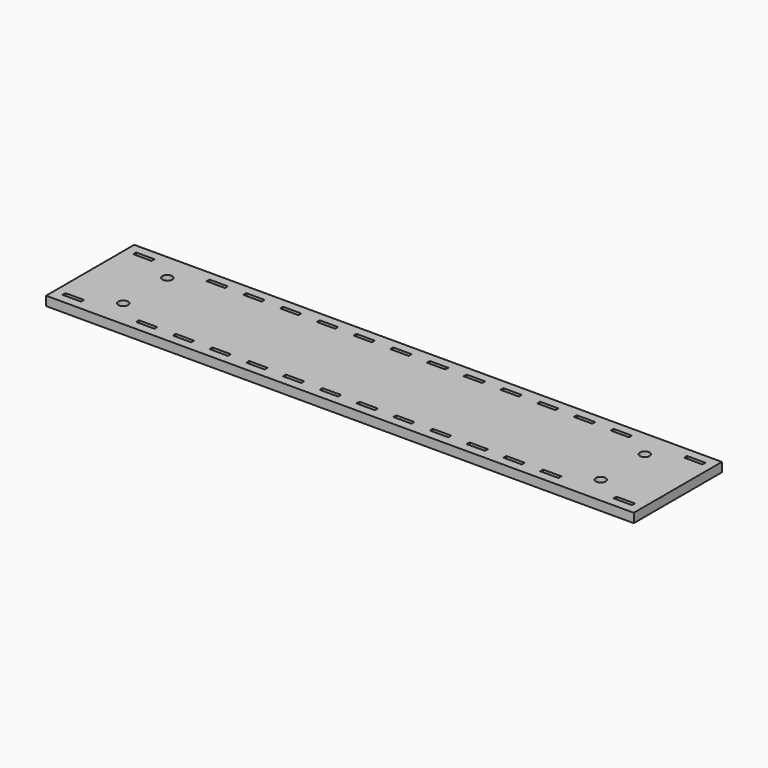
from build123d import *

# Parameters (mm, degrees)
F0_W     = 12.7
F0_H     = 2.54
F0_R     = 3.3782
F1_DEPTH = 6.35


with BuildPart() as f1:
    # F0 (on Top) → F1 (new body)
    with BuildSketch(Plane.XY):
        Polygon((0, 69.85), (0, 0), (406.4, 0), (406.4, 76.2), (0, 76.2), align=None)
        with Locations((12.7, 7.62)):
            Rectangle(F0_W, F0_H, mode=Mode.SUBTRACT)
        with Locations((63.5, 7.62)):
            Rectangle(F0_W, F0_H, mode=Mode.SUBTRACT)
        with Locations((88.9, 7.62)):
            Rectangle(F0_W, F0_H, mode=Mode.SUBTRACT)
        with Locations((114.3, 7.62)):
            Rectangle(F0_W, F0_H, mode=Mode.SUBTRACT)
        with Locations((139.7, 7.62)):
            Rectangle(F0_W, F0_H, mode=Mode.SUBTRACT)
        with Locations((165.1, 7.62)):
            Rectangle(F0_W, F0_H, mode=Mode.SUBTRACT)
        with Locations((190.5, 7.62)):
            Rectangle(F0_W, F0_H, mode=Mode.SUBTRACT)
        with Locations((38.1, 19.05)):
            Circle(F0_R, mode=Mode.SUBTRACT)
        with Locations((215.9, 7.62)):
            Rectangle(F0_W, F0_H, mode=Mode.SUBTRACT)
        with Locations((241.3, 7.62)):
            Rectangle(F0_W, F0_H, mode=Mode.SUBTRACT)
        with Locations((266.7, 7.62)):
            Rectangle(F0_W, F0_H, mode=Mode.SUBTRACT)
        with Locations((292.1, 7.62)):
            Rectangle(F0_W, F0_H, mode=Mode.SUBTRACT)
        with Locations((317.5, 7.62)):
            Rectangle(F0_W, F0_H, mode=Mode.SUBTRACT)
        with Locations((342.9, 7.62)):
            Rectangle(F0_W, F0_H, mode=Mode.SUBTRACT)
        with Locations((393.7, 7.62)):
            Rectangle(F0_W, F0_H, mode=Mode.SUBTRACT)
        with Locations((368.3, 19.05)):
            Circle(F0_R, mode=Mode.SUBTRACT)
        with Locations((38.1, 57.15)):
            Circle(F0_R, mode=Mode.SUBTRACT)
        with Locations((12.7, 68.58)):
            Rectangle(F0_W, F0_H, mode=Mode.SUBTRACT)
        with Locations((63.5, 68.58)):
            Rectangle(F0_W, F0_H, mode=Mode.SUBTRACT)
        with Locations((88.9, 68.58)):
            Rectangle(F0_W, F0_H, mode=Mode.SUBTRACT)
        with Locations((114.3, 68.58)):
            Rectangle(F0_W, F0_H, mode=Mode.SUBTRACT)
        with Locations((139.7, 68.58)):
            Rectangle(F0_W, F0_H, mode=Mode.SUBTRACT)
        with Locations((165.1, 68.58)):
            Rectangle(F0_W, F0_H, mode=Mode.SUBTRACT)
        with Locations((190.5, 68.58)):
            Rectangle(F0_W, F0_H, mode=Mode.SUBTRACT)
        with Locations((215.9, 68.58)):
            Rectangle(F0_W, F0_H, mode=Mode.SUBTRACT)
        with Locations((241.3, 68.58)):
            Rectangle(F0_W, F0_H, mode=Mode.SUBTRACT)
        with Locations((266.7, 68.58)):
            Rectangle(F0_W, F0_H, mode=Mode.SUBTRACT)
        with Locations((292.1, 68.58)):
            Rectangle(F0_W, F0_H, mode=Mode.SUBTRACT)
        with Locations((368.3, 57.15)):
            Circle(F0_R, mode=Mode.SUBTRACT)
        with Locations((317.5, 68.58)):
            Rectangle(F0_W, F0_H, mode=Mode.SUBTRACT)
        with Locations((342.9, 68.58)):
            Rectangle(F0_W, F0_H, mode=Mode.SUBTRACT)
        with Locations((393.7, 68.58)):
            Rectangle(F0_W, F0_H, mode=Mode.SUBTRACT)
    extrude(amount=F1_DEPTH)


solid = f1.part
